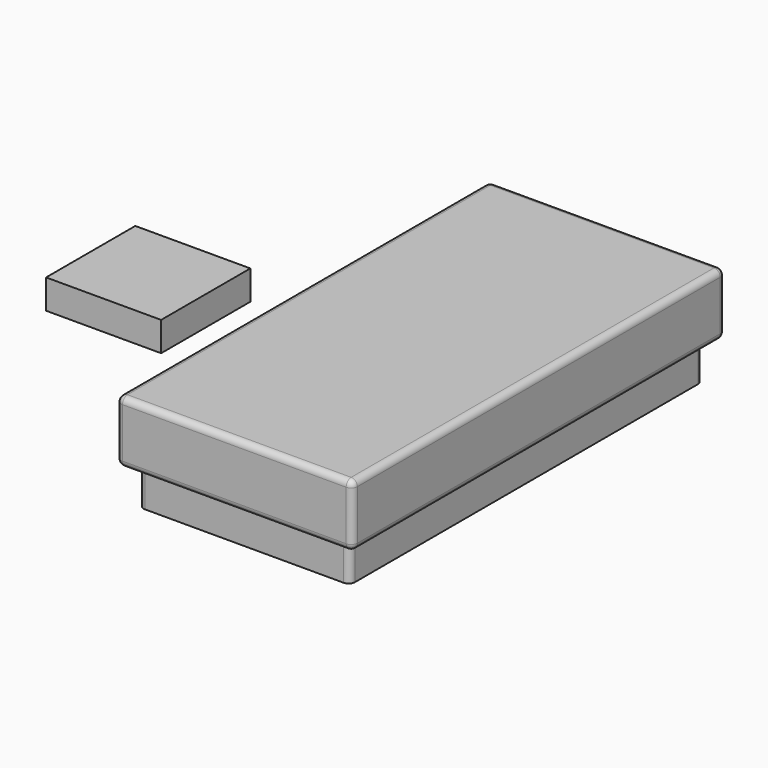
from build123d import *

# Parameters (mm, degrees)
F0_W     = 863.6
F0_H     = 1803.4
F1_DEPTH = 152.4
F2_W     = 965.2
F2_H     = 1905
F3_DEPTH = 254
F4_R     = 25.4
F5_W     = 470.331192
F5_H     = 455.904096
F6_DEPTH = 119.97156


with BuildPart() as f1:
    # F0 (on Top) → F1 (new body)
    with BuildSketch(Plane.XY):
        with Locations((-32.677825, 26.544513)):
            Rectangle(F0_W, F0_H)
    extrude(amount=F1_DEPTH)

    # F2 (on face) → F3 (join)
    with BuildSketch(Plane.XY.offset(152.4)):
        with Locations((-32.677825, 26.544513)):
            Rectangle(F2_W, F2_H)
    extrude(amount=F3_DEPTH)

    # F4
    f4_edges = [f1.edges().sort_by_distance(p)[0] for p in [
        (-515.277825, 26.544513, 406.4),
        (-32.677825, -925.955487, 406.4),
        (449.922175, 26.544513, 406.4),
        (-32.677825, 979.044513, 406.4),
        (449.922175, -925.955487, 279.4),
        (449.922175, 979.044513, 279.4),
        (449.922175, 26.544513, 152.4),
        (-515.277825, 979.044513, 279.4),
        (-32.677825, 979.044513, 152.4),
        (-515.277825, -925.955487, 279.4),
        (-515.277825, 26.544513, 152.4),
        (-32.677825, -925.955487, 152.4),
        (399.122175, -875.155487, 76.2),
        (399.122175, 928.244513, 76.2),
        (-464.477825, 928.244513, 76.2),
        (-464.477825, -875.155487, 76.2),
    ]]
    fillet(f4_edges, radius=F4_R)


with BuildPart() as f6:
    # F5 (on Top) → F6 (new body)
    with BuildSketch(Plane.XY):
        with Locations((-1308.061242, 227.952048)):
            Rectangle(F5_W, F5_H)
    extrude(amount=F6_DEPTH)


solid = Compound([f1.part, f6.part])
